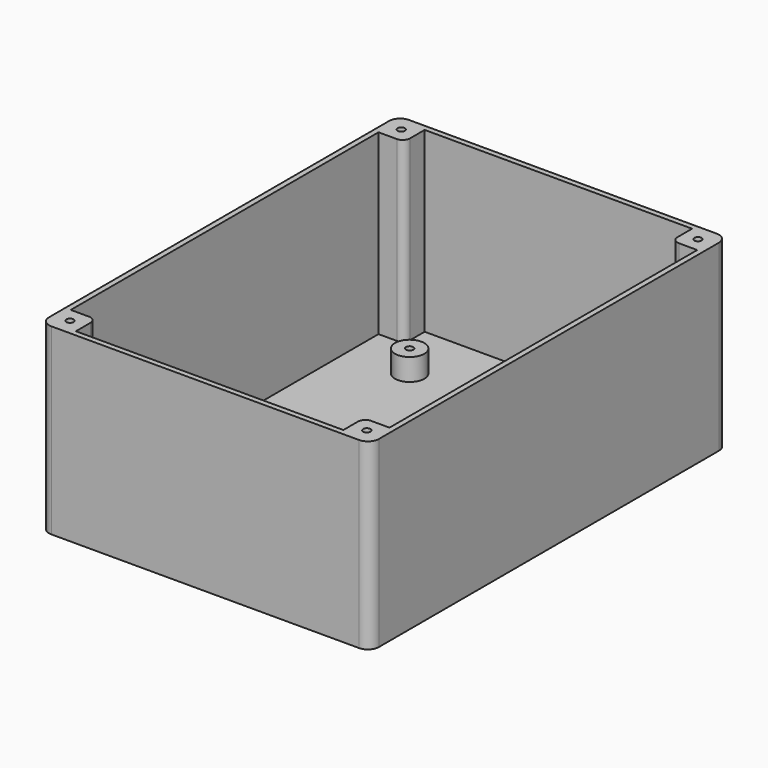
from build123d import *

# Parameters (mm, degrees)
F1_DEPTH  = 50
F2_T      = -1.5
F4_DEPTH  = 48.5
F5_R      = 1
F6_DEPTH  = 10
F7_R      = 4
F8_DEPTH  = 6
F9_R      = 1
F10_DEPTH = 5


with BuildPart() as f1:
    # F0 (on Top) → F1 (new body)
    with BuildSketch(Plane.XY):
        with BuildLine():
            Line((-39.653846, -58.894231), (44.346154, -58.894231))
            ThreePointArc((44.346154, -58.894231), (46.467474, -58.015551), (47.346154, -55.894231))
            Line((47.346154, -55.894231), (47.346154, 60.105769))
            ThreePointArc((47.346154, 60.105769), (46.467474, 62.22709), (44.346154, 63.105769))
            Line((44.346154, 63.105769), (-39.653846, 63.105769))
            ThreePointArc((-39.653846, 63.105769), (-41.775166, 62.22709), (-42.653846, 60.105769))
            Line((-42.653846, 60.105769), (-42.653846, -55.894231))
            ThreePointArc((-42.653846, -55.894231), (-41.775166, -58.015551), (-39.653846, -58.894231))
        make_face()
    extrude(amount=F1_DEPTH)

    # F2
    f2_openings = [f1.faces().sort_by_distance(p)[0] for p in [
        (2.346154, 2.105769, 50),
    ]]
    offset(amount=F2_T, openings=f2_openings)

    # F3 (on face) → F4 (join)
    with BuildSketch(Plane.XY.offset(1.5)):
        with BuildLine():
            Line((45.846154, 61.605769), (38.846154, 61.605769))
            Line((38.846154, 61.605769), (38.846154, 56.605769))
            ThreePointArc((38.846154, 56.605769), (39.43194, 55.191556), (40.846154, 54.605769))
            Line((40.846154, 54.605769), (45.846154, 54.605769))
            Line((45.846154, 54.605769), (45.846154, 61.605769))
        make_face()
        with BuildLine():
            Line((-34.153846, 61.605769), (-41.153846, 61.605769))
            Line((-41.153846, 61.605769), (-41.153846, 54.605769))
            Line((-41.153846, 54.605769), (-36.153846, 54.605769))
            ThreePointArc((-36.153846, 54.605769), (-34.739633, 55.191556), (-34.153846, 56.605769))
            Line((-34.153846, 56.605769), (-34.153846, 61.605769))
        make_face()
        with BuildLine():
            Line((-36.153846, -50.394231), (-41.153846, -50.394231))
            Line((-41.153846, -50.394231), (-41.153846, -57.394231))
            Line((-41.153846, -57.394231), (-34.153846, -57.394231))
            Line((-34.153846, -57.394231), (-34.153846, -52.394231))
            ThreePointArc((-34.153846, -52.394231), (-34.739633, -50.980017), (-36.153846, -50.394231))
        make_face()
        with BuildLine():
            Line((45.846154, -50.394231), (40.846154, -50.394231))
            ThreePointArc((40.846154, -50.394231), (39.43194, -50.980017), (38.846154, -52.394231))
            Line((38.846154, -52.394231), (38.846154, -57.394231))
            Line((38.846154, -57.394231), (45.846154, -57.394231))
            Line((45.846154, -57.394231), (45.846154, -50.394231))
        make_face()
    extrude(amount=F4_DEPTH)

    # F5 (on face) → F6 (cut)
    with BuildSketch(Plane.XY.offset(50)):
        with Locations((42.846154, -54.394231)):
            Circle(F5_R)
        with Locations((-38.153846, -54.394231)):
            Circle(F5_R)
        with Locations((-38.153846, 58.605769)):
            Circle(F5_R)
        with Locations((42.846154, 58.605769)):
            Circle(F5_R)
    extrude(amount=-F6_DEPTH, mode=Mode.SUBTRACT)

    # F7 (on face) → F8 (join)
    with BuildSketch(Plane.XY.offset(1.5)):
        with Locations((29.346154, 44.605769)):
            Circle(F7_R)
        with Locations((-24.653846, -43.394231)):
            Circle(F7_R)
        with Locations((29.346154, -43.394231)):
            Circle(F7_R)
        with Locations((-24.653846, 44.605769)):
            Circle(F7_R)
    extrude(amount=F8_DEPTH)

    # F9 (on face) → F10 (cut)
    with BuildSketch(Plane.XY.offset(7.5)):
        with Locations((29.346154, 44.605769)):
            Circle(F9_R)
        with Locations((-24.653846, -43.394231)):
            Circle(F9_R)
        with Locations((29.346154, -43.394231)):
            Circle(F9_R)
        with Locations((-24.653846, 44.605769)):
            Circle(F9_R)
    extrude(amount=-F10_DEPTH, mode=Mode.SUBTRACT)


solid = f1.part
